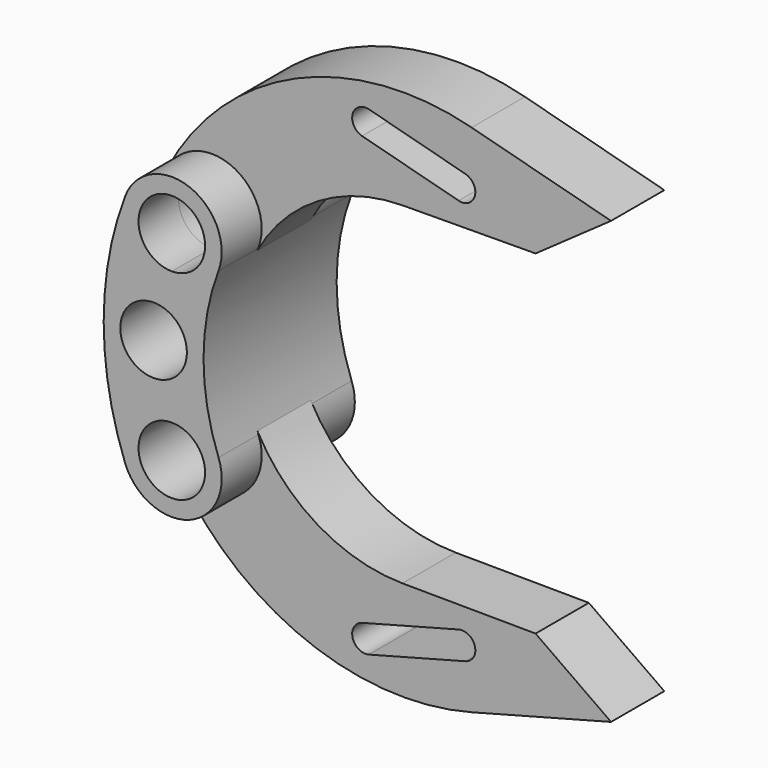
from build123d import *

# Parameters (mm, degrees)
F0_R     = 5
F2_DEPTH = 12.5
F1_R     = 5
F3_DEPTH = 5
F4_R     = 5
F5_DEPTH = 25.001


with BuildPart() as f2:
    # F0 (on Front) → F2 (new body, symmetric)
    with BuildSketch(Plane.XZ):
        with BuildLine():
            ThreePointArc((7.0173413473, -12.3529411765), (4.7649343015, 0), (7.0173413473, 12.3529411765))
            ThreePointArc((7.0173413473, 12.3529411765), (2.6470588235, 22.0173413473), (-7.0173413473, 17.6470588235))
            ThreePointArc((-7.0173413473, 17.6470588235), (-10.2350656985, 0), (-7.0173413473, -17.6470588235))
            ThreePointArc((-7.0173413473, -17.6470588235), (2.6470588235, -22.0173413473), (7.0173413473, -12.3529411765))
        make_face()
        with Locations((0, -15)):
            Circle(F0_R, mode=Mode.SUBTRACT)
        with BuildLine():
            ThreePointArc((0, 10), (-3.5355339059, 18.5355339059), (5, 15))
            ThreePointArc((5, 15), (3.5355339059, 11.4644660941), (0, 10))
        make_face(mode=Mode.SUBTRACT)
    extrude(amount=F2_DEPTH, both=True)

    # F1 (on Front) → F3 (join, symmetric)
    with BuildSketch(Plane.XZ):
        with BuildLine():
            ThreePointArc((6.6534014969, 11.5384615385), (7.2852766326, 13.2182187602), (7.5, 15))
            ThreePointArc((7.5, 15), (1.7817812398, 22.2852766326), (-6.6534014969, 18.4615384615))
            ThreePointArc((-6.6534014969, 18.4615384615), (-3.4615384615, 8.3465985031), (6.6534014969, 11.5384615385))
        make_face()
        with Locations((0, 15)):
            Circle(F1_R, mode=Mode.SUBTRACT)
        with BuildLine():
            ThreePointArc((-6.6534014969, 18.4615384615), (1.7817812398, 22.2852766326), (7.5, 15))
            ThreePointArc((7.5, 15), (7.2852766326, 13.2182187602), (6.6534014969, 11.5384615385))
            ThreePointArc((6.6534014969, 11.5384615385), (15.7860590482, 21.3264837751), (28.6593043172, 24.9994076098))
            Line((28.6593043172, 24.9994076098), (48.6588304051, 25.1370893454))
            Line((48.6588304051, 25.1370893454), (60, 33.1370893454))
            Line((60, 33.1370893454), (39.049954237, 38.6727459831))
            ThreePointArc((39.049954237, 38.6727459831), (12.6536685758, 36.5825203627), (-6.6534014969, 18.4615384615))
        make_face()
        with BuildLine():
            ThreePointArc((22.5898109777, 32.1951237944), (21.1671010661, 34.639688481), (23.6116657528, 36.0623983927))
            Line((23.6116657528, 36.0623983927), (38.1139454964, 32.2304429863))
            ThreePointArc((38.1139454964, 32.2304429863), (39.5366554081, 29.7858782997), (37.0920907214, 28.363168388))
            Line((37.0920907214, 28.363168388), (22.5898109777, 32.1951237944))
        make_face(mode=Mode.SUBTRACT)
        with BuildLine():
            ThreePointArc((-6.6534014969, -18.4615384615), (12.6536685758, -36.5825203627), (39.049954237, -38.6727459831))
            Line((39.049954237, -38.6727459831), (60, -33.1370893454))
            Line((60, -33.1370893454), (48.6588304051, -25.1370893454))
            Line((48.6588304051, -25.1370893454), (28.6593043172, -24.9994076098))
            ThreePointArc((28.6593043172, -24.9994076098), (15.7860590482, -21.3264837751), (6.6534014969, -11.5384615385))
            ThreePointArc((6.6534014969, -11.5384615385), (7.2852766326, -13.2182187602), (7.5, -15))
            ThreePointArc((7.5, -15), (1.7817812398, -22.2852766326), (-6.6534014969, -18.4615384615))
        make_face()
        with BuildLine():
            ThreePointArc((23.6116657528, -36.0623983927), (21.1671010661, -34.639688481), (22.5898109777, -32.1951237944))
            Line((22.5898109777, -32.1951237944), (37.0920907214, -28.363168388))
            ThreePointArc((37.0920907214, -28.363168388), (39.5366554081, -29.7858782997), (38.1139454964, -32.2304429863))
            Line((38.1139454964, -32.2304429863), (23.6116657528, -36.0623983927))
        make_face(mode=Mode.SUBTRACT)
        with BuildLine():
            ThreePointArc((6.6534014969, -11.5384615385), (-3.4615384615, -8.3465985031), (-6.6534014969, -18.4615384615))
            ThreePointArc((-6.6534014969, -18.4615384615), (1.7817812398, -22.2852766326), (7.5, -15))
            ThreePointArc((7.5, -15), (7.2852766326, -13.2182187602), (6.6534014969, -11.5384615385))
        make_face()
        with Locations((0, -15)):
            Circle(F1_R, mode=Mode.SUBTRACT)
    extrude(amount=F3_DEPTH, both=True)

    # F4 (on face) → F5 (cut, through all)
    with BuildSketch(Plane.XZ.offset(12.5)):
        with Locations((-2.7350656985, 0)):
            Circle(F4_R)
    extrude(amount=-F5_DEPTH, mode=Mode.SUBTRACT)


solid = f2.part
